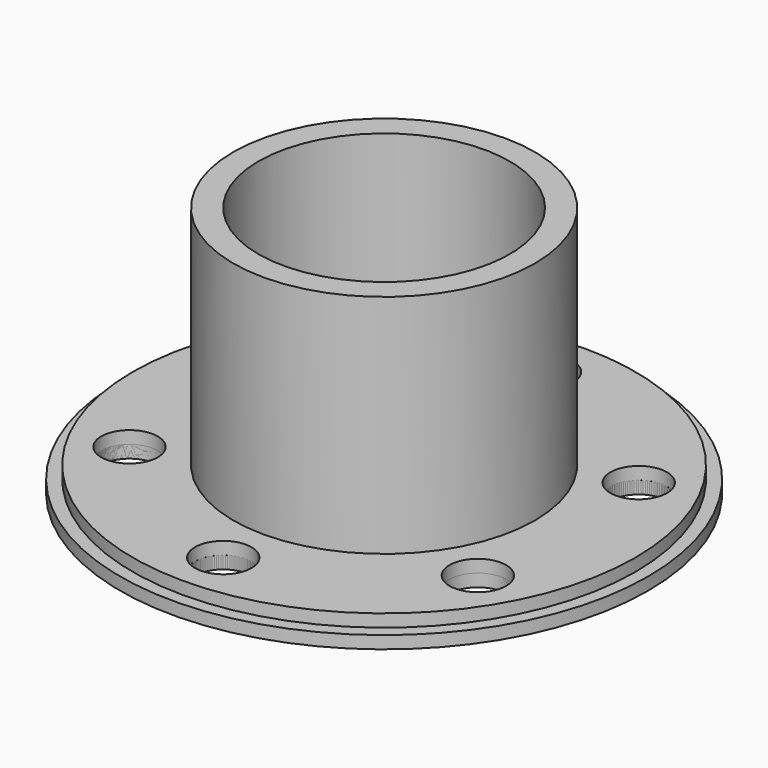
from build123d import *

# Parameters (mm, degrees)
SKETCH001_R        = 4.5
POCKET_DEPTH       = 4
POLARPATTERN_COUNT = 6
SKETCH002_R        = 42
SKETCH002_R_2      = 20
SKETCH002_R_3      = 4.5
PAD_DEPTH          = 2


with BuildPart() as pipebody:
    # Sketch → Revolution (revolve)
    with BuildSketch(Plane.XZ):
        Polygon((-40, 0), (-20, 0), (-20, 40), (-24, 40), (-24, 4), (-40, 4), align=None)
    revolve(axis=Axis((0, 0, 0), (0, 0, 1)))

    # Sketch001 (on Face5 of Revolution) → Pocket (cut)
    with BuildSketch(Plane(origin=(0, 0, 4), x_dir=(-1, 0, 0), z_dir=(0, 0, 1))):
        with Locations((0, 32)):
            Circle(SKETCH001_R)
    pocket = extrude(amount=-POCKET_DEPTH, mode=Mode.SUBTRACT)

    # PolarPattern: Pocket ×6 about axis
    polarpattern_axis = Axis((0, 0, 4), (0, 0, 1))
    for i in range(1, POLARPATTERN_COUNT):
        add(pocket.rotate(polarpattern_axis, i * 360 / POLARPATTERN_COUNT), mode=Mode.SUBTRACT)


with BuildPart() as gasket:
    # Sketch002 → Pad (new body)
    with BuildSketch(Plane.XY):
        Circle(SKETCH002_R)
        Circle(SKETCH002_R_2, mode=Mode.SUBTRACT)
        with Locations((0, 32)):
            Circle(SKETCH002_R_3, mode=Mode.SUBTRACT)
        with Locations((-27.712813, 16)):
            Circle(SKETCH002_R_3, mode=Mode.SUBTRACT)
        with Locations((-27.712813, -16)):
            Circle(SKETCH002_R_3, mode=Mode.SUBTRACT)
        with Locations((0, -32)):
            Circle(SKETCH002_R_3, mode=Mode.SUBTRACT)
        with Locations((27.712813, -16)):
            Circle(SKETCH002_R_3, mode=Mode.SUBTRACT)
        with Locations((27.712813, 16)):
            Circle(SKETCH002_R_3, mode=Mode.SUBTRACT)
    extrude(amount=PAD_DEPTH)


solid = Compound([pipebody.part, gasket.part])
